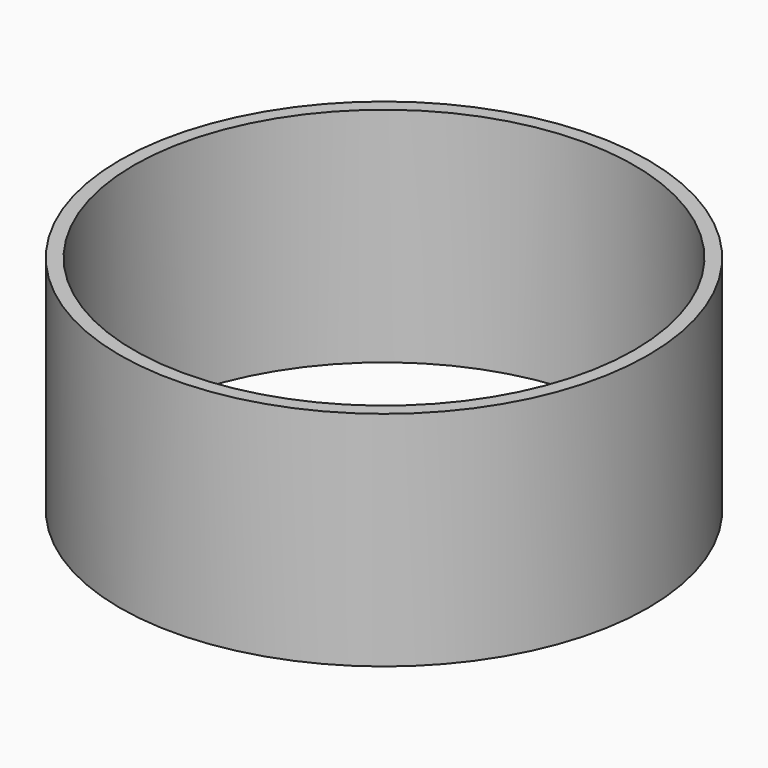
from build123d import *

# Parameters (mm, degrees)
F0_R     = 4.75
F1_DEPTH = 4
F2_SCALE = 0.5
F3_R     = 2.25
F4_DEPTH = 25


with BuildPart() as f1:
    # F0 (on Top) → F1 (new body)
    with BuildSketch(Plane.XY):
        Circle(F0_R)
    extrude(amount=F1_DEPTH)


with BuildPart() as f1_1:
    # F2: moved
    add(f1.part.scale(F2_SCALE))

    # F3 (on face) → F4 (cut)
    with BuildSketch(Plane.XY.offset(2)):
        Circle(F3_R)
    extrude(amount=-F4_DEPTH, mode=Mode.SUBTRACT)


solid = f1_1.part
